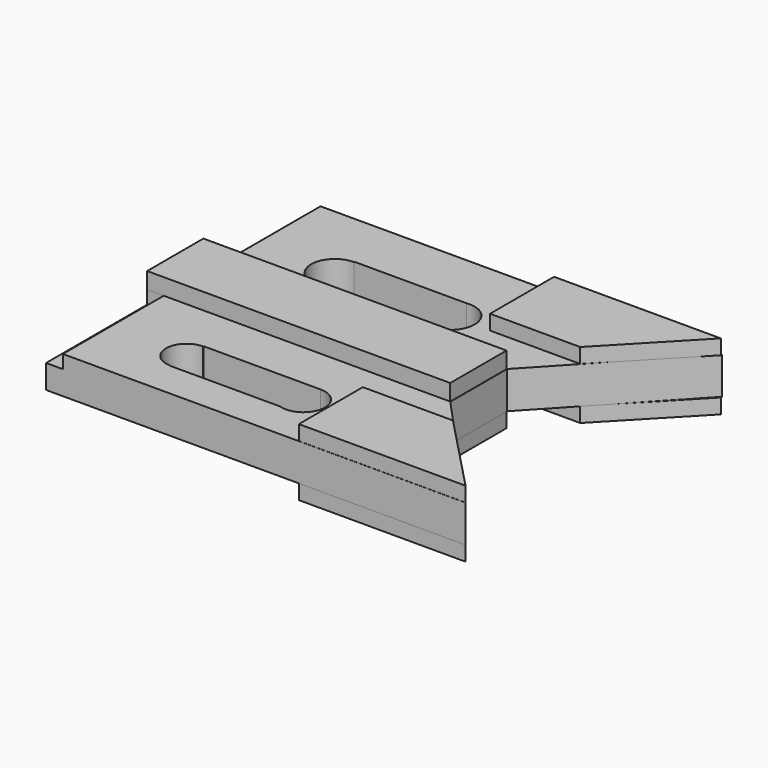
from build123d import *

# Parameters (mm, degrees)
F1_DEPTH  = 2.54
F4_DEPTH  = 6.35
F8_W      = 51.7626535147
F8_H      = 12.0121920481
F9_DEPTH  = 11.684
F10_W     = 3.2028928399
F10_H     = 21.3907221332
F11_DEPTH = 2.54
F12_W     = 3.4383758903
F12_H     = 21.8503316864
F13_DEPTH = 2.286
F15_DEPTH = 25.4
F17_DEPTH = 25.4


with BuildPart() as f1:
    # F0 (on Top) → F1 (new body)
    with BuildSketch(Plane.XY):
        Polygon((-7.5027812272, 27.2412225604), (-35.9747856855, 27.2412225604), (-35.9747856855, 13.5823562741), (-20.5845143646, 13.5823562741), align=None)
        Polygon((-7.5027812272, 27.2412225604), (-35.9747856855, 27.2412225604), (-35.9747856855, 13.5823562741), (-20.5845143646, 13.5823562741), align=None)
    extrude(amount=F1_DEPTH)


with BuildPart() as f2_1:
    # F2: instance of F1
    add(f1.part.mirror(Plane.XZ))


with BuildPart() as f4:
    # F3 (on Top) → F4 (new body)
    with BuildSketch(Plane.XY):
        Polygon((-27.2736139596, 6.3365907408), (-7.5153368525, 27.4984613061), (-79.1166648269, 27.4984613061), (-79.1166648269, -27.2664036602), (-7.5153368525, -27.2664036602), (-27.2736139596, -5.7910899632), align=None)
    extrude(amount=-F4_DEPTH)


with BuildPart() as f6_1:
    # F6: copy of F1
    add(f1.part.moved(Location((0, 0, -8.89))))


with BuildPart() as f7_1:
    # F7: copy of F2_1
    add(f2_1.part.moved(Location((0, 0, -8.89))))


with BuildPart() as f1_1:
    add(f1.part)

    add(f2_1.part)  # F9 merges F2_1

    add(f4.part)  # F9 merges F4

    add(f6_1.part)  # F9 merges F6_1

    add(f7_1.part)  # F9 merges F7_1
    # F8 (on offset) → F9 (join)
    with BuildSketch(Plane.XY.offset(2.794)):
        with Locations((-53.2025257125, 0.2657445148)):
            Rectangle(F8_W, F8_H)
    extrude(amount=-F9_DEPTH)

    # F10 (on Top) → F11 (cut)
    with BuildSketch(Plane.XY):
        with Locations((-77.6618160307, 16.9474571012)):
            Rectangle(F10_W, F10_H)
    extrude(amount=-F11_DEPTH, mode=Mode.SUBTRACT)

    # F12 (on Top) → F13 (cut)
    with BuildSketch(Plane.XY):
        with Locations((-77.9631473124, -16.6356083937)):
            Rectangle(F12_W, F12_H)
    extrude(amount=-F13_DEPTH, mode=Mode.SUBTRACT)

    # F14 (on offset) → F15 (cut)
    with BuildSketch(Plane.XY.offset(2.794)):
        with BuildLine():
            Line((-42.855940921, 17.7954155952), (-42.855940921, 9.5185028021))
            ThreePointArc((-42.855940921, 9.5185028021), (-39.9091769658, 10.729969596), (-38.6873239795, 13.6724421754))
            ThreePointArc((-38.6873239795, 13.6724421754), (-40.0888769364, 16.7836563698), (-43.3477644342, 17.7954155952))
            Line((-43.3477644342, 17.7954155952), (-42.855940921, 17.7954155952))
        make_face()
        with BuildLine():
            Line((-62.5399425626, 9.5185028021), (-42.855940921, 9.5185028021))
            ThreePointArc((-42.855940921, 9.5185028021), (-46.9879402117, 13.4260434851), (-43.3477644342, 17.7954155952))
            Line((-43.3477644342, 17.7954155952), (-62.5399425626, 17.7954155952))
            Line((-62.5399425626, 17.7954155952), (-62.5399425626, 17.7007548757))
            ThreePointArc((-62.5399425626, 17.7007548757), (-59.6805472176, 16.5163545436), (-58.4961468855, 13.6569591987))
            ThreePointArc((-58.4961468855, 13.6569591987), (-59.6805472176, 10.7975638537), (-62.5399425626, 9.6131635216))
            Line((-62.5399425626, 9.6131635216), (-62.5399425626, 9.5185028021))
        make_face()
        with BuildLine():
            ThreePointArc((-43.3477644342, 17.7954155952), (-46.9879402117, 13.4260434851), (-42.855940921, 9.5185028021))
            Line((-42.855940921, 9.5185028021), (-42.855940921, 17.7954155952))
            Line((-42.855940921, 17.7954155952), (-43.3477644342, 17.7954155952))
        make_face()
        with BuildLine():
            ThreePointArc((-62.5399425626, 17.7007548757), (-66.5837382396, 13.6569591987), (-62.5399425626, 9.6131635216))
            Line((-62.5399425626, 9.6131635216), (-62.5399425626, 17.7007548757))
        make_face()
        with BuildLine():
            Line((-62.5399425626, 17.7007548757), (-62.5399425626, 9.6131635216))
            ThreePointArc((-62.5399425626, 9.6131635216), (-59.6805472176, 10.7975638537), (-58.4961468855, 13.6569591987))
            ThreePointArc((-58.4961468855, 13.6569591987), (-59.6805472176, 16.5163545436), (-62.5399425626, 17.7007548757))
        make_face()
    extrude(amount=-F15_DEPTH, mode=Mode.SUBTRACT)

    # F16 (on Top) → F17 (cut)
    with BuildSketch(Plane.XY):
        with BuildLine():
            ThreePointArc((-44.1468792435, -21.0114289075), (-40.8257271545, -20.4931034722), (-39.2974471919, -17.4992643297))
            ThreePointArc((-39.2974471919, -17.4992643297), (-40.3801402653, -14.8854120279), (-42.9939925671, -13.8027189545))
            Line((-42.9939925671, -13.8027189545), (-42.9939925671, -21.0114289075))
            Line((-42.9939925671, -21.0114289075), (-44.1468792435, -21.0114289075))
        make_face()
        with BuildLine():
            Line((-42.9939925671, -21.0114289075), (-42.9939925671, -13.8027189545))
            ThreePointArc((-42.9939925671, -13.8027189545), (-46.6441517031, -16.9154955469), (-44.1468792435, -21.0114289075))
            Line((-44.1468792435, -21.0114289075), (-42.9939925671, -21.0114289075))
        make_face()
        with BuildLine():
            ThreePointArc((-44.1468792435, -21.0114289075), (-46.6441517031, -16.9154955469), (-42.9939925671, -13.8027189545))
            Line((-42.9939925671, -13.8027189545), (-62.9980564117, -13.8027189545))
            Line((-62.9980564117, -13.8027189545), (-62.9980564117, -13.8833889438))
            ThreePointArc((-62.9980564117, -13.8833889438), (-60.5064348625, -14.9154523818), (-59.4743714246, -17.407073931))
            ThreePointArc((-59.4743714246, -17.407073931), (-60.5064348625, -19.8986954802), (-62.9980564117, -20.9307589182))
            Line((-62.9980564117, -20.9307589182), (-62.9980564117, -21.0114289075))
            Line((-62.9980564117, -21.0114289075), (-44.1468792435, -21.0114289075))
        make_face()
        with BuildLine():
            ThreePointArc((-59.4743714246, -17.407073931), (-60.5064348625, -14.9154523818), (-62.9980564117, -13.8833889438))
            Line((-62.9980564117, -13.8833889438), (-62.9980564117, -20.9307589182))
            ThreePointArc((-62.9980564117, -20.9307589182), (-60.5064348625, -19.8986954802), (-59.4743714246, -17.407073931))
        make_face()
        with BuildLine():
            Line((-62.9980564117, -20.9307589182), (-62.9980564117, -13.8833889438))
            ThreePointArc((-62.9980564117, -13.8833889438), (-66.5217413989, -17.407073931), (-62.9980564117, -20.9307589182))
        make_face()
    extrude(amount=-F17_DEPTH, mode=Mode.SUBTRACT)


solid = f1_1.part
